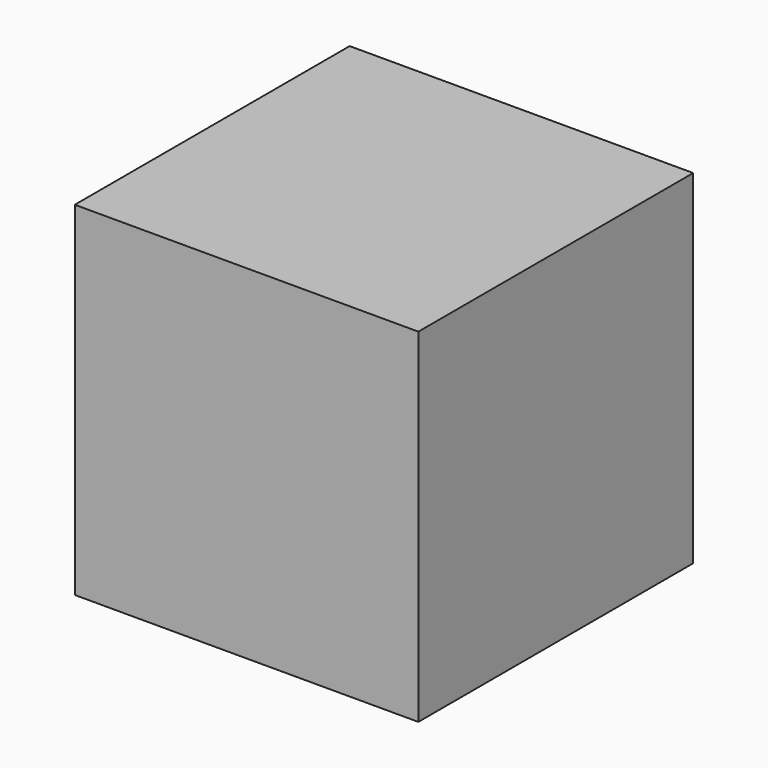
from build123d import *

# Parameters (mm, degrees)
CUBE_W     = 200
CUBE_H     = 200
CUBE_DEPTH = 200


with BuildPart() as part:
    # cube → cube (new body)
    with BuildSketch(Plane.XY):
        with Locations((100, 100)):
            Rectangle(CUBE_W, CUBE_H)
    extrude(amount=CUBE_DEPTH)


solid = part.part
